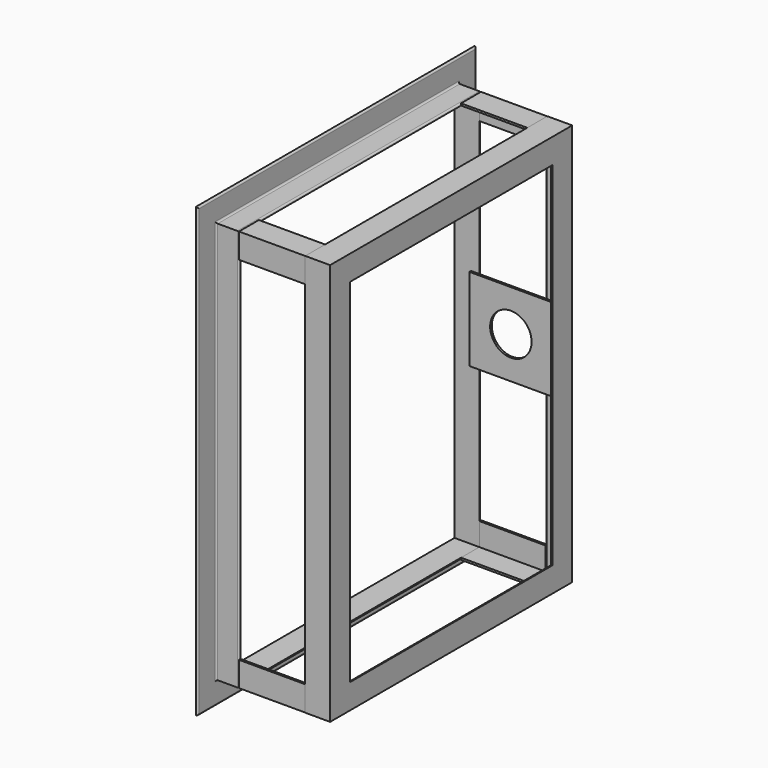
from build123d import *

# Parameters (mm, degrees)
F9_DEPTH  = 101.6
F10_W     = 114.3
F10_H     = 127
F10_R     = 31.75
F10_W_2   = 12.7
F11_DEPTH = 3.175


with BuildPart() as f2:
    # F2: sweep along a path in F0
    with BuildLine(Plane.YZ) as f2_path:
        Line((-228.6, 304.8), (228.6, 304.8))
        Line((228.6, 304.8), (228.6, -304.8))
        Line((228.6, -304.8), (-228.6, -304.8))
        Line((-228.6, -304.8), (-228.6, 304.8))
    # F1 (on Front) → F2 (sweep)
    with BuildSketch(Plane.XZ):
        with BuildLine():
            Line((38.1, -304.8), (0, -304.8))
            Line((0, -304.8), (0, -342.9))
            Line((0, -342.9), (0.508, -342.9))
            ThreePointArc((0.508, -342.9), (2.3040512242, -342.1560512242), (3.048, -340.36))
            Line((3.048, -340.36), (3.048, -310.388))
            ThreePointArc((3.048, -310.388), (3.7919487758, -308.5919487758), (5.588, -307.848))
            Line((5.588, -307.848), (35.56, -307.848))
            ThreePointArc((35.56, -307.848), (37.3560512242, -307.1040512242), (38.1, -305.308))
            Line((38.1, -305.308), (38.1, -304.8))
        make_face()
    sweep(path=f2_path.line, transition=Transition.RIGHT)


with BuildPart() as f6:
    # F6: sweep along a path in F4
    with BuildLine(Plane.YZ.offset(177.8)) as f6_path:
        Line((231.775, 307.975), (231.775, -307.975))
        Line((231.775, -307.975), (-231.775, -307.975))
        Line((-231.775, -307.975), (-231.775, 307.975))
        Line((-231.775, 307.975), (231.775, 307.975))
    # F5 (on Front) → F6 (sweep)
    with BuildSketch(Plane.XZ):
        with BuildLine():
            Line((139.7, -307.975), (177.8, -307.975))
            Line((177.8, -307.975), (177.8, -269.875))
            Line((177.8, -269.875), (177.165, -269.875))
            ThreePointArc((177.165, -269.875), (175.3689487758, -270.6189487758), (174.625, -272.415))
            Line((174.625, -272.415), (174.625, -302.26))
            ThreePointArc((174.625, -302.26), (173.8810512242, -304.0560512242), (172.085, -304.8))
            Line((172.085, -304.8), (142.24, -304.8))
            ThreePointArc((142.24, -304.8), (140.4439487758, -305.5439487758), (139.7, -307.34))
            Line((139.7, -307.34), (139.7, -307.975))
        make_face()
    sweep(path=f6_path.line, transition=Transition.RIGHT)


with BuildPart() as f9:
    # F8 (on offset) → F9 (new body)
    with BuildSketch(Plane.YZ.offset(38.1)):
        Polygon((-193.548, -304.8), (-228.6, -304.8), (-228.6, -269.748), (-231.648, -269.748), (-231.648, -307.848), (-193.548, -307.848), align=None)
    extrude(amount=F9_DEPTH)


with BuildPart() as f9b:
    # F8 (on offset) → F9, piece 2 (new body)
    with BuildSketch(Plane.YZ.offset(38.1)):
        Polygon((-228.6, 269.748), (-228.6, 304.8), (-193.548, 304.8), (-193.548, 307.848), (-231.648, 307.848), (-231.648, 269.748), align=None)
    extrude(amount=F9_DEPTH)


with BuildPart() as f9c:
    # F8 (on offset) → F9, piece 3 (new body)
    with BuildSketch(Plane.YZ.offset(38.1)):
        Polygon((228.6, -269.748), (228.6, -304.8), (193.548, -304.8), (193.548, -307.848), (231.648, -307.848), (231.648, -269.748), align=None)
    extrude(amount=F9_DEPTH)


with BuildPart() as f9d:
    # F8 (on offset) → F9, piece 4 (new body)
    with BuildSketch(Plane.YZ.offset(38.1)):
        Polygon((193.548, 304.8), (228.6, 304.8), (228.6, 269.748), (231.648, 269.748), (231.648, 307.848), (193.548, 307.848), align=None)
    extrude(amount=F9_DEPTH)


with BuildPart() as f11:
    # F10 (on face) → F11 (new body)
    with BuildSketch(Plane.XZ.offset(-228.6)):
        with Locations((95.25, 0)):
            Rectangle(F10_W, F10_H)
        with Locations((88.9, 0)):
            Circle(F10_R, mode=Mode.SUBTRACT)
        with Locations((31.75, 0)):
            Rectangle(F10_W_2, F10_H)
    extrude(amount=F11_DEPTH)


solid = Compound([f2.part, f6.part, f9.part, f9b.part, f9c.part, f9d.part, f11.part])
